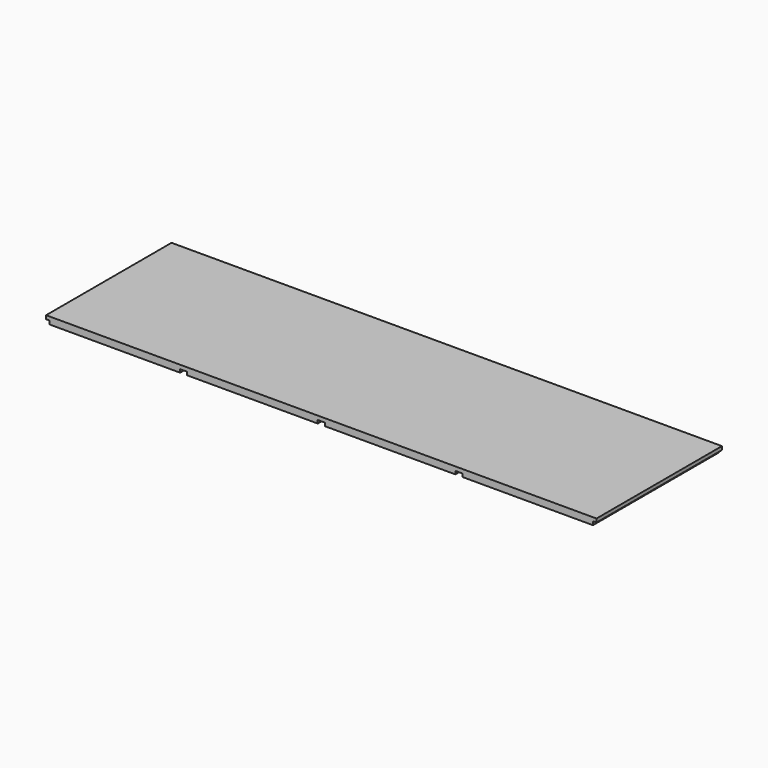
from build123d import *

# Parameters (mm, degrees)
SKETCH_W        = 1404
SKETCH_H        = 400
PAD_DEPTH       = 18
SKETCH001_W     = 9
SKETCH001_H     = 400
POCKET_DEPTH    = 9
SKETCH002_W     = 18
SKETCH002_H     = 400
POCKET001_DEPTH = 8


with BuildPart() as part:
    # Sketch → Pad (new body)
    with BuildSketch(Plane.XY):
        with Locations((-702, 200)):
            Rectangle(SKETCH_W, SKETCH_H)
    extrude(amount=PAD_DEPTH)

    # Sketch001 → Pocket (cut)
    with BuildSketch(Plane.XY):
        with Locations((-4.5, 200)):
            Rectangle(SKETCH001_W, SKETCH001_H)
        with Locations((-1399.5, 200)):
            Rectangle(SKETCH001_W, SKETCH001_H)
    extrude(amount=POCKET_DEPTH, mode=Mode.SUBTRACT)

    # Sketch002 (on Face4 of Pocket) → Pocket001 (cut)
    with BuildSketch(Plane(origin=(0, 0, 0), x_dir=(1, 0, 0), z_dir=(0, 0, -1))):
        with Locations((-351, -200)):
            Rectangle(SKETCH002_W, SKETCH002_H)
        with Locations((-702, -200)):
            Rectangle(SKETCH002_W, SKETCH002_H)
        with Locations((-1053, -200)):
            Rectangle(SKETCH002_W, SKETCH002_H)
    extrude(amount=-POCKET001_DEPTH, mode=Mode.SUBTRACT)


solid = part.part
